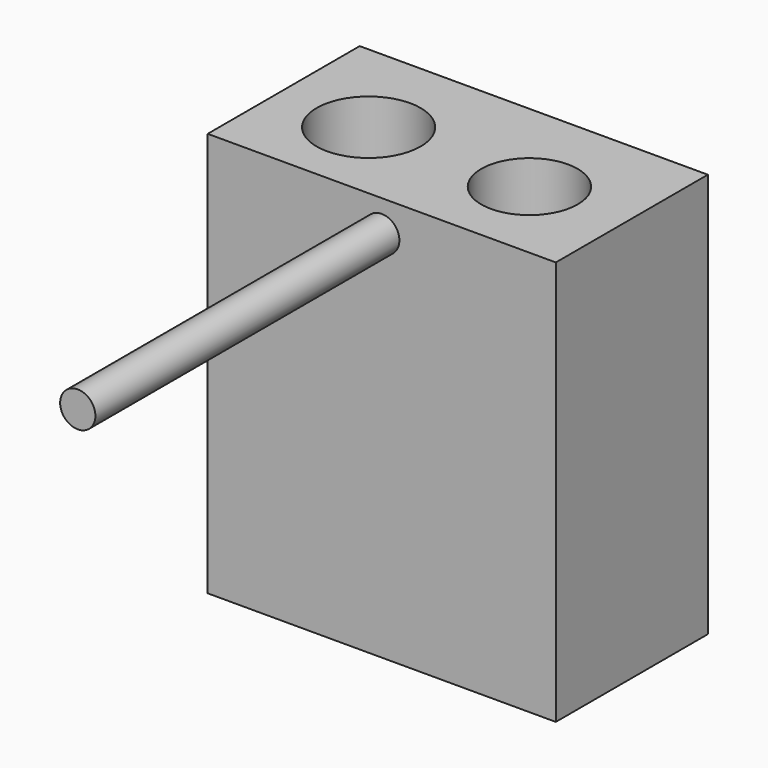
from build123d import *

# Parameters (mm, degrees)
F0_W     = 46.54321
F0_H     = 54.078784
F1_DEPTH = 25.4
F2_R     = 6.959459
F2_R_2   = 6.442665
F3_DEPTH = 50.8
F4_R     = 2.356005
F5_DEPTH = 50.8


with BuildPart() as f1:
    # F0 (on Front) → F1 (new body)
    with BuildSketch(Plane.XZ):
        Rectangle(F0_W, F0_H)
    extrude(amount=F1_DEPTH)

    # F2 (on face) → F3 (cut)
    with BuildSketch(Plane.XY.offset(27.039392)):
        with Locations((-11.081717, -13.741329)):
            Circle(F2_R)
        with Locations((10.416814, -13.741329)):
            Circle(F2_R_2)
    extrude(amount=-F3_DEPTH, mode=Mode.SUBTRACT)

    # F4 (on face) → F5 (join)
    with BuildSketch(Plane.XZ.offset(25.4)):
        with Locations((0, 22.828339)):
            Circle(F4_R)
    extrude(amount=F5_DEPTH)


solid = f1.part
